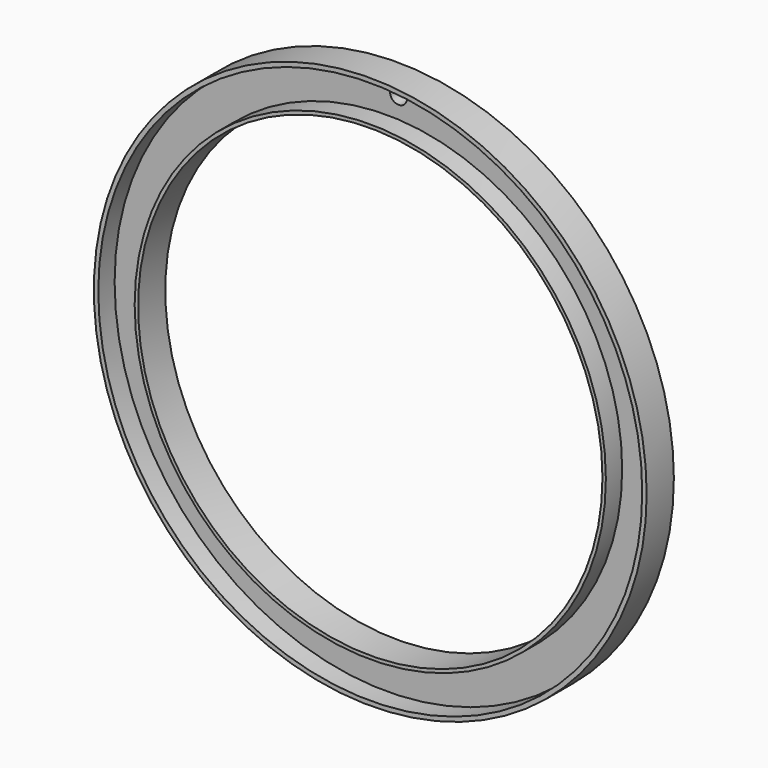
from build123d import *

# Parameters (mm, degrees)
F0_R     = 40.65
F0_R_2   = 34.15
F1_DEPTH = 2
F2_R     = 40.65
F2_R_2   = 40
F3_DEPTH = 3
F4_R     = 34.65
F4_R_2   = 34.15
F5_DEPTH = 3
F6_R     = 1.25
F7_DEPTH = 25


with BuildPart() as f1:
    # F0 (on Front) → F1 (new body)
    with BuildSketch(Plane.XZ):
        Circle(F0_R)
        Circle(F0_R_2, mode=Mode.SUBTRACT)
    extrude(amount=F1_DEPTH)

    # F2 (on face) → F3 (join)
    with BuildSketch(Plane.XZ.offset(2)):
        Circle(F2_R)
        Circle(F2_R_2, mode=Mode.SUBTRACT)
    extrude(amount=F3_DEPTH)

    # F4 (on face) → F5 (join)
    with BuildSketch(Plane.XZ.offset(2)):
        Circle(F4_R)
        Circle(F4_R_2, mode=Mode.SUBTRACT)
    extrude(amount=F5_DEPTH)

    # F6 (on face) → F7 (cut)
    with BuildSketch(Plane.XZ.offset(2)):
        with Locations((1.767338, 37.755713)):
            Circle(F6_R)
    extrude(amount=-F7_DEPTH, mode=Mode.SUBTRACT)


solid = f1.part
